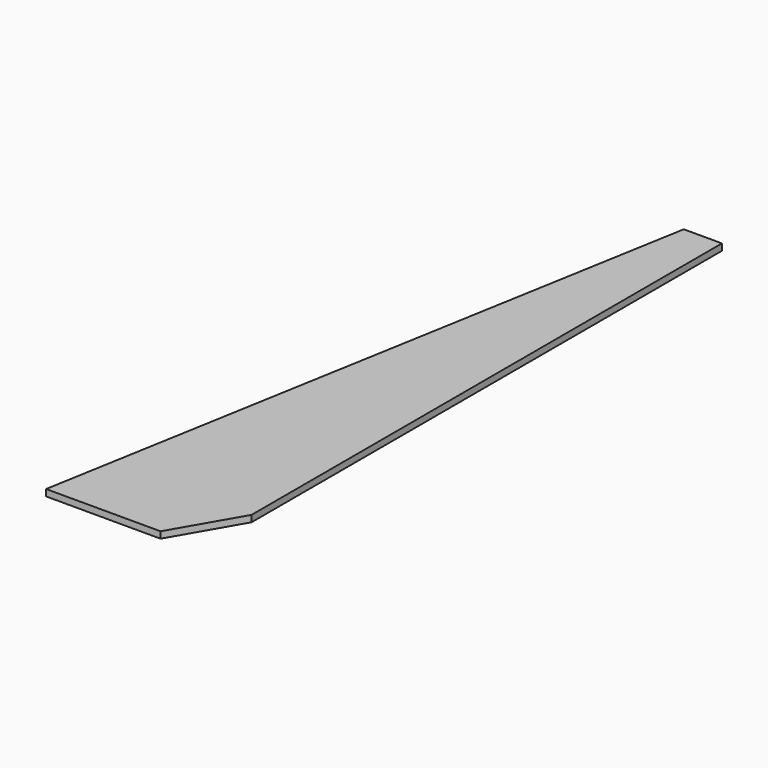
from build123d import *

# Parameters (mm, degrees)
PAD_DEPTH = 6


with BuildPart() as part:
    # Sketch → Pad (new body)
    with BuildSketch(Plane.XY):
        Polygon((0, 0), (35, 60.621778), (35, 600), (0, 600), (-105, 0), align=None)
    extrude(amount=PAD_DEPTH)


solid = part.part
